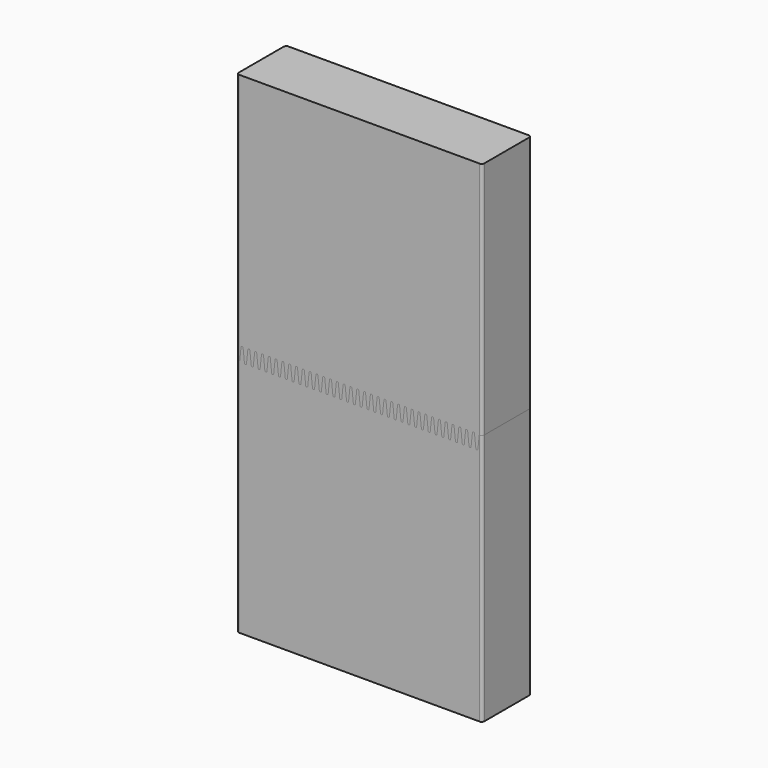
from build123d import *

# Parameters (mm, degrees)
F1_DEPTH = 38.1
F2_DEPTH = 38.1
F3_R     = 1.5875
F3_2_R   = 1.5875


with BuildPart() as f1:
    # F0 (on Front) → F1 (new body)
    with BuildSketch(Plane.XZ):
        with BuildLine():
            Line((-1.871233102, 156.4351255988), (0, 156.4351255988))
            Line((0, 156.4351255988), (0, 304.8))
            Line((0, 304.8), (-152.4, 304.8))
            Line((-152.4, 304.8), (-152.4, 148.3648744012))
            Line((-152.4, 148.3648744012), (-150.5077, 148.3648744012))
            Line((-150.5077, 148.3648744012), (-149.659482102, 156.4351255988))
            ThreePointArc((-149.659482102, 156.4351255988), (-149.027960701, 157.00375), (-148.3964393, 156.4351255988))
            Line((-148.3964393, 156.4351255988), (-147.548221402, 148.3648744012))
            ThreePointArc((-147.548221402, 148.3648744012), (-146.916700001, 147.79625), (-146.2851786, 148.3648744012))
            Line((-146.2851786, 148.3648744012), (-145.436960702, 156.4351255988))
            ThreePointArc((-145.436960702, 156.4351255988), (-144.805439301, 157.00375), (-144.1739179, 156.4351255988))
            Line((-144.1739179, 156.4351255988), (-143.325700002, 148.3648744012))
            ThreePointArc((-143.325700002, 148.3648744012), (-142.694178601, 147.79625), (-142.0626572, 148.3648744012))
            Line((-142.0626572, 148.3648744012), (-141.214439302, 156.4351255988))
            ThreePointArc((-141.214439302, 156.4351255988), (-140.582917901, 157.00375), (-139.9513965, 156.4351255988))
            Line((-139.9513965, 156.4351255988), (-139.103178602, 148.3648744012))
            ThreePointArc((-139.103178602, 148.3648744012), (-138.471657201, 147.79625), (-137.8401358, 148.3648744012))
            Line((-137.8401358, 148.3648744012), (-136.991917902, 156.4351255988))
            ThreePointArc((-136.991917902, 156.4351255988), (-136.360396501, 157.00375), (-135.7288751, 156.4351255988))
            Line((-135.7288751, 156.4351255988), (-134.880657202, 148.3648744012))
            ThreePointArc((-134.880657202, 148.3648744012), (-134.249135801, 147.79625), (-133.6176144, 148.3648744012))
            Line((-133.6176144, 148.3648744012), (-132.769396502, 156.4351255988))
            ThreePointArc((-132.769396502, 156.4351255988), (-132.137875101, 157.00375), (-131.5063537, 156.4351255988))
            Line((-131.5063537, 156.4351255988), (-130.658135802, 148.3648744012))
            ThreePointArc((-130.658135802, 148.3648744012), (-130.026614401, 147.79625), (-129.395093, 148.3648744012))
            Line((-129.395093, 148.3648744012), (-128.546875102, 156.4351255988))
            ThreePointArc((-128.546875102, 156.4351255988), (-127.915353701, 157.00375), (-127.2838323, 156.4351255988))
            Line((-127.2838323, 156.4351255988), (-126.435614402, 148.3648744012))
            ThreePointArc((-126.435614402, 148.3648744012), (-125.804093001, 147.79625), (-125.1725716, 148.3648744012))
            Line((-125.1725716, 148.3648744012), (-124.324353702, 156.4351255988))
            ThreePointArc((-124.324353702, 156.4351255988), (-123.692832301, 157.00375), (-123.0613109, 156.4351255988))
            Line((-123.0613109, 156.4351255988), (-122.213093002, 148.3648744012))
            ThreePointArc((-122.213093002, 148.3648744012), (-121.581571601, 147.79625), (-120.9500502, 148.3648744012))
            Line((-120.9500502, 148.3648744012), (-120.101832302, 156.4351255988))
            ThreePointArc((-120.101832302, 156.4351255988), (-119.470310901, 157.00375), (-118.8387895, 156.4351255988))
            Line((-118.8387895, 156.4351255988), (-117.990571602, 148.3648744012))
            ThreePointArc((-117.990571602, 148.3648744012), (-117.359050201, 147.79625), (-116.7275288, 148.3648744012))
            Line((-116.7275288, 148.3648744012), (-115.879310902, 156.4351255988))
            ThreePointArc((-115.879310902, 156.4351255988), (-115.247789501, 157.00375), (-114.6162681, 156.4351255988))
            Line((-114.6162681, 156.4351255988), (-113.768050202, 148.3648744012))
            ThreePointArc((-113.768050202, 148.3648744012), (-113.136528801, 147.79625), (-112.5050074, 148.3648744012))
            Line((-112.5050074, 148.3648744012), (-111.656789502, 156.4351255988))
            ThreePointArc((-111.656789502, 156.4351255988), (-111.025268101, 157.00375), (-110.3937467, 156.4351255988))
            Line((-110.3937467, 156.4351255988), (-109.545528802, 148.3648744012))
            ThreePointArc((-109.545528802, 148.3648744012), (-108.914007401, 147.79625), (-108.282486, 148.3648744012))
            Line((-108.282486, 148.3648744012), (-107.434268102, 156.4351255988))
            ThreePointArc((-107.434268102, 156.4351255988), (-106.802746701, 157.00375), (-106.1712253, 156.4351255988))
            Line((-106.1712253, 156.4351255988), (-105.323007402, 148.3648744012))
            ThreePointArc((-105.323007402, 148.3648744012), (-104.691486001, 147.79625), (-104.0599646, 148.3648744012))
            Line((-104.0599646, 148.3648744012), (-103.211746702, 156.4351255988))
            ThreePointArc((-103.211746702, 156.4351255988), (-102.580225301, 157.00375), (-101.9487039, 156.4351255988))
            Line((-101.9487039, 156.4351255988), (-101.100486002, 148.3648744012))
            ThreePointArc((-101.100486002, 148.3648744012), (-100.468964601, 147.79625), (-99.8374432, 148.3648744012))
            Line((-99.8374432, 148.3648744012), (-98.989225302, 156.4351255988))
            ThreePointArc((-98.989225302, 156.4351255988), (-98.357703901, 157.00375), (-97.7261825, 156.4351255988))
            Line((-97.7261825, 156.4351255988), (-96.877964602, 148.3648744012))
            ThreePointArc((-96.877964602, 148.3648744012), (-96.246443201, 147.79625), (-95.6149218, 148.3648744012))
            Line((-95.6149218, 148.3648744012), (-94.766703902, 156.4351255988))
            ThreePointArc((-94.766703902, 156.4351255988), (-94.135182501, 157.00375), (-93.5036611, 156.4351255988))
            Line((-93.5036611, 156.4351255988), (-92.655443202, 148.3648744012))
            ThreePointArc((-92.655443202, 148.3648744012), (-92.023921801, 147.79625), (-91.3924004, 148.3648744012))
            Line((-91.3924004, 148.3648744012), (-90.544182502, 156.4351255988))
            ThreePointArc((-90.544182502, 156.4351255988), (-89.912661101, 157.00375), (-89.2811397, 156.4351255988))
            Line((-89.2811397, 156.4351255988), (-88.432921802, 148.3648744012))
            ThreePointArc((-88.432921802, 148.3648744012), (-87.801400401, 147.79625), (-87.169879, 148.3648744012))
            Line((-87.169879, 148.3648744012), (-86.321661102, 156.4351255988))
            ThreePointArc((-86.321661102, 156.4351255988), (-85.690139701, 157.00375), (-85.0586183, 156.4351255988))
            Line((-85.0586183, 156.4351255988), (-84.210400402, 148.3648744012))
            ThreePointArc((-84.210400402, 148.3648744012), (-83.578879001, 147.79625), (-82.9473576, 148.3648744012))
            Line((-82.9473576, 148.3648744012), (-82.099139702, 156.4351255988))
            ThreePointArc((-82.099139702, 156.4351255988), (-81.467618301, 157.00375), (-80.8360969, 156.4351255988))
            Line((-80.8360969, 156.4351255988), (-79.987879002, 148.3648744012))
            ThreePointArc((-79.987879002, 148.3648744012), (-79.356357601, 147.79625), (-78.7248362, 148.3648744012))
            Line((-78.7248362, 148.3648744012), (-77.876618302, 156.4351255988))
            ThreePointArc((-77.876618302, 156.4351255988), (-77.245096901, 157.00375), (-76.6135755, 156.4351255988))
            Line((-76.6135755, 156.4351255988), (-75.765357602, 148.3648744012))
            ThreePointArc((-75.765357602, 148.3648744012), (-75.133836201, 147.79625), (-74.5023148, 148.3648744012))
            Line((-74.5023148, 148.3648744012), (-73.654096902, 156.4351255988))
            ThreePointArc((-73.654096902, 156.4351255988), (-73.022575501, 157.00375), (-72.3910541, 156.4351255988))
            Line((-72.3910541, 156.4351255988), (-71.542836202, 148.3648744012))
            ThreePointArc((-71.542836202, 148.3648744012), (-70.911314801, 147.79625), (-70.2797934, 148.3648744012))
            Line((-70.2797934, 148.3648744012), (-69.431575502, 156.4351255988))
            ThreePointArc((-69.431575502, 156.4351255988), (-68.800054101, 157.00375), (-68.1685327, 156.4351255988))
            Line((-68.1685327, 156.4351255988), (-67.320314802, 148.3648744012))
            ThreePointArc((-67.320314802, 148.3648744012), (-66.688793401, 147.79625), (-66.057272, 148.3648744012))
            Line((-66.057272, 148.3648744012), (-65.209054102, 156.4351255988))
            ThreePointArc((-65.209054102, 156.4351255988), (-64.577532701, 157.00375), (-63.9460113, 156.4351255988))
            Line((-63.9460113, 156.4351255988), (-63.097793402, 148.3648744012))
            ThreePointArc((-63.097793402, 148.3648744012), (-62.466272001, 147.79625), (-61.8347506, 148.3648744012))
            Line((-61.8347506, 148.3648744012), (-60.986532702, 156.4351255988))
            ThreePointArc((-60.986532702, 156.4351255988), (-60.355011301, 157.00375), (-59.7234899, 156.4351255988))
            Line((-59.7234899, 156.4351255988), (-58.875272002, 148.3648744012))
            ThreePointArc((-58.875272002, 148.3648744012), (-58.243750601, 147.79625), (-57.6122292, 148.3648744012))
            Line((-57.6122292, 148.3648744012), (-56.764011302, 156.4351255988))
            ThreePointArc((-56.764011302, 156.4351255988), (-56.132489901, 157.00375), (-55.5009685, 156.4351255988))
            Line((-55.5009685, 156.4351255988), (-54.652750602, 148.3648744012))
            ThreePointArc((-54.652750602, 148.3648744012), (-54.021229201, 147.79625), (-53.3897078, 148.3648744012))
            Line((-53.3897078, 148.3648744012), (-52.541489902, 156.4351255988))
            ThreePointArc((-52.541489902, 156.4351255988), (-51.909968501, 157.00375), (-51.2784471, 156.4351255988))
            Line((-51.2784471, 156.4351255988), (-50.430229202, 148.3648744012))
            ThreePointArc((-50.430229202, 148.3648744012), (-49.798707801, 147.79625), (-49.1671864, 148.3648744012))
            Line((-49.1671864, 148.3648744012), (-48.318968502, 156.4351255988))
            ThreePointArc((-48.318968502, 156.4351255988), (-47.687447101, 157.00375), (-47.0559257, 156.4351255988))
            Line((-47.0559257, 156.4351255988), (-46.207707802, 148.3648744012))
            ThreePointArc((-46.207707802, 148.3648744012), (-45.576186401, 147.79625), (-44.944665, 148.3648744012))
            Line((-44.944665, 148.3648744012), (-44.096447102, 156.4351255988))
            ThreePointArc((-44.096447102, 156.4351255988), (-43.464925701, 157.00375), (-42.8334043, 156.4351255988))
            Line((-42.8334043, 156.4351255988), (-41.985186402, 148.3648744012))
            ThreePointArc((-41.985186402, 148.3648744012), (-41.353665001, 147.79625), (-40.7221436, 148.3648744012))
            Line((-40.7221436, 148.3648744012), (-39.873925702, 156.4351255988))
            ThreePointArc((-39.873925702, 156.4351255988), (-39.242404301, 157.00375), (-38.6108829, 156.4351255988))
            Line((-38.6108829, 156.4351255988), (-37.762665002, 148.3648744012))
            ThreePointArc((-37.762665002, 148.3648744012), (-37.131143601, 147.79625), (-36.4996222, 148.3648744012))
            Line((-36.4996222, 148.3648744012), (-35.651404302, 156.4351255988))
            ThreePointArc((-35.651404302, 156.4351255988), (-35.019882901, 157.00375), (-34.3883615, 156.4351255988))
            Line((-34.3883615, 156.4351255988), (-33.540143602, 148.3648744012))
            ThreePointArc((-33.540143602, 148.3648744012), (-32.908622201, 147.79625), (-32.2771008, 148.3648744012))
            Line((-32.2771008, 148.3648744012), (-31.428882902, 156.4351255988))
            ThreePointArc((-31.428882902, 156.4351255988), (-30.797361501, 157.00375), (-30.1658401, 156.4351255988))
            Line((-30.1658401, 156.4351255988), (-29.317622202, 148.3648744012))
            ThreePointArc((-29.317622202, 148.3648744012), (-28.686100801, 147.79625), (-28.0545794, 148.3648744012))
            Line((-28.0545794, 148.3648744012), (-27.206361502, 156.4351255988))
            ThreePointArc((-27.206361502, 156.4351255988), (-26.574840101, 157.00375), (-25.9433187, 156.4351255988))
            Line((-25.9433187, 156.4351255988), (-25.095100802, 148.3648744012))
            ThreePointArc((-25.095100802, 148.3648744012), (-24.463579401, 147.79625), (-23.832058, 148.3648744012))
            Line((-23.832058, 148.3648744012), (-22.983840102, 156.4351255988))
            ThreePointArc((-22.983840102, 156.4351255988), (-22.352318701, 157.00375), (-21.7207973, 156.4351255988))
            Line((-21.7207973, 156.4351255988), (-20.872579402, 148.3648744012))
            ThreePointArc((-20.872579402, 148.3648744012), (-20.241058001, 147.79625), (-19.6095366, 148.3648744012))
            Line((-19.6095366, 148.3648744012), (-18.761318702, 156.4351255988))
            ThreePointArc((-18.761318702, 156.4351255988), (-18.129797301, 157.00375), (-17.4982759, 156.4351255988))
            Line((-17.4982759, 156.4351255988), (-16.650058002, 148.3648744012))
            ThreePointArc((-16.650058002, 148.3648744012), (-16.018536601, 147.79625), (-15.3870152, 148.3648744012))
            Line((-15.3870152, 148.3648744012), (-14.538797302, 156.4351255988))
            ThreePointArc((-14.538797302, 156.4351255988), (-13.907275901, 157.00375), (-13.2757545, 156.4351255988))
            Line((-13.2757545, 156.4351255988), (-12.427536602, 148.3648744012))
            ThreePointArc((-12.427536602, 148.3648744012), (-11.796015201, 147.79625), (-11.1644938, 148.3648744012))
            Line((-11.1644938, 148.3648744012), (-10.316275902, 156.4351255988))
            ThreePointArc((-10.316275902, 156.4351255988), (-9.684754501, 157.00375), (-9.0532331, 156.4351255988))
            Line((-9.0532331, 156.4351255988), (-8.205015202, 148.3648744012))
            ThreePointArc((-8.205015202, 148.3648744012), (-7.573493801, 147.79625), (-6.9419724, 148.3648744012))
            Line((-6.9419724, 148.3648744012), (-6.093754502, 156.4351255988))
            ThreePointArc((-6.093754502, 156.4351255988), (-5.462233101, 157.00375), (-4.8307117, 156.4351255988))
            Line((-4.8307117, 156.4351255988), (-3.982493802, 148.3648744012))
            ThreePointArc((-3.982493802, 148.3648744012), (-3.350972401, 147.79625), (-2.719451, 148.3648744012))
            Line((-2.719451, 148.3648744012), (-1.871233102, 156.4351255988))
        make_face()
    extrude(amount=-F1_DEPTH)

    # F3
    f3_edges = [f1.edges().sort_by_distance(p)[0] for p in [
        (0, 0, 230.617563),
        (0, 38.1, 230.617563),
        (-152.4, 38.1, 226.582437),
        (-152.4, 0, 226.582437),
    ]]
    fillet(f3_edges, radius=F3_R)


with BuildPart() as f2:
    # F0 (on Front) → F2 (new body)
    with BuildSketch(Plane.XZ):
        with BuildLine():
            Line((-152.4, 0), (0, 0))
            Line((0, 0), (0, 156.4351255988))
            Line((0, 156.4351255988), (-1.871233102, 156.4351255988))
            Line((-1.871233102, 156.4351255988), (-2.719451, 148.3648744012))
            ThreePointArc((-2.719451, 148.3648744012), (-3.350972401, 147.79625), (-3.982493802, 148.3648744012))
            Line((-3.982493802, 148.3648744012), (-4.8307117, 156.4351255988))
            ThreePointArc((-4.8307117, 156.4351255988), (-5.462233101, 157.00375), (-6.093754502, 156.4351255988))
            Line((-6.093754502, 156.4351255988), (-6.9419724, 148.3648744012))
            ThreePointArc((-6.9419724, 148.3648744012), (-7.573493801, 147.79625), (-8.205015202, 148.3648744012))
            Line((-8.205015202, 148.3648744012), (-9.0532331, 156.4351255988))
            ThreePointArc((-9.0532331, 156.4351255988), (-9.684754501, 157.00375), (-10.316275902, 156.4351255988))
            Line((-10.316275902, 156.4351255988), (-11.1644938, 148.3648744012))
            ThreePointArc((-11.1644938, 148.3648744012), (-11.796015201, 147.79625), (-12.427536602, 148.3648744012))
            Line((-12.427536602, 148.3648744012), (-13.2757545, 156.4351255988))
            ThreePointArc((-13.2757545, 156.4351255988), (-13.907275901, 157.00375), (-14.538797302, 156.4351255988))
            Line((-14.538797302, 156.4351255988), (-15.3870152, 148.3648744012))
            ThreePointArc((-15.3870152, 148.3648744012), (-16.018536601, 147.79625), (-16.650058002, 148.3648744012))
            Line((-16.650058002, 148.3648744012), (-17.4982759, 156.4351255988))
            ThreePointArc((-17.4982759, 156.4351255988), (-18.129797301, 157.00375), (-18.761318702, 156.4351255988))
            Line((-18.761318702, 156.4351255988), (-19.6095366, 148.3648744012))
            ThreePointArc((-19.6095366, 148.3648744012), (-20.241058001, 147.79625), (-20.872579402, 148.3648744012))
            Line((-20.872579402, 148.3648744012), (-21.7207973, 156.4351255988))
            ThreePointArc((-21.7207973, 156.4351255988), (-22.352318701, 157.00375), (-22.983840102, 156.4351255988))
            Line((-22.983840102, 156.4351255988), (-23.832058, 148.3648744012))
            ThreePointArc((-23.832058, 148.3648744012), (-24.463579401, 147.79625), (-25.095100802, 148.3648744012))
            Line((-25.095100802, 148.3648744012), (-25.9433187, 156.4351255988))
            ThreePointArc((-25.9433187, 156.4351255988), (-26.574840101, 157.00375), (-27.206361502, 156.4351255988))
            Line((-27.206361502, 156.4351255988), (-28.0545794, 148.3648744012))
            ThreePointArc((-28.0545794, 148.3648744012), (-28.686100801, 147.79625), (-29.317622202, 148.3648744012))
            Line((-29.317622202, 148.3648744012), (-30.1658401, 156.4351255988))
            ThreePointArc((-30.1658401, 156.4351255988), (-30.797361501, 157.00375), (-31.428882902, 156.4351255988))
            Line((-31.428882902, 156.4351255988), (-32.2771008, 148.3648744012))
            ThreePointArc((-32.2771008, 148.3648744012), (-32.908622201, 147.79625), (-33.540143602, 148.3648744012))
            Line((-33.540143602, 148.3648744012), (-34.3883615, 156.4351255988))
            ThreePointArc((-34.3883615, 156.4351255988), (-35.019882901, 157.00375), (-35.651404302, 156.4351255988))
            Line((-35.651404302, 156.4351255988), (-36.4996222, 148.3648744012))
            ThreePointArc((-36.4996222, 148.3648744012), (-37.131143601, 147.79625), (-37.762665002, 148.3648744012))
            Line((-37.762665002, 148.3648744012), (-38.6108829, 156.4351255988))
            ThreePointArc((-38.6108829, 156.4351255988), (-39.242404301, 157.00375), (-39.873925702, 156.4351255988))
            Line((-39.873925702, 156.4351255988), (-40.7221436, 148.3648744012))
            ThreePointArc((-40.7221436, 148.3648744012), (-41.353665001, 147.79625), (-41.985186402, 148.3648744012))
            Line((-41.985186402, 148.3648744012), (-42.8334043, 156.4351255988))
            ThreePointArc((-42.8334043, 156.4351255988), (-43.464925701, 157.00375), (-44.096447102, 156.4351255988))
            Line((-44.096447102, 156.4351255988), (-44.944665, 148.3648744012))
            ThreePointArc((-44.944665, 148.3648744012), (-45.576186401, 147.79625), (-46.207707802, 148.3648744012))
            Line((-46.207707802, 148.3648744012), (-47.0559257, 156.4351255988))
            ThreePointArc((-47.0559257, 156.4351255988), (-47.687447101, 157.00375), (-48.318968502, 156.4351255988))
            Line((-48.318968502, 156.4351255988), (-49.1671864, 148.3648744012))
            ThreePointArc((-49.1671864, 148.3648744012), (-49.798707801, 147.79625), (-50.430229202, 148.3648744012))
            Line((-50.430229202, 148.3648744012), (-51.2784471, 156.4351255988))
            ThreePointArc((-51.2784471, 156.4351255988), (-51.909968501, 157.00375), (-52.541489902, 156.4351255988))
            Line((-52.541489902, 156.4351255988), (-53.3897078, 148.3648744012))
            ThreePointArc((-53.3897078, 148.3648744012), (-54.021229201, 147.79625), (-54.652750602, 148.3648744012))
            Line((-54.652750602, 148.3648744012), (-55.5009685, 156.4351255988))
            ThreePointArc((-55.5009685, 156.4351255988), (-56.132489901, 157.00375), (-56.764011302, 156.4351255988))
            Line((-56.764011302, 156.4351255988), (-57.6122292, 148.3648744012))
            ThreePointArc((-57.6122292, 148.3648744012), (-58.243750601, 147.79625), (-58.875272002, 148.3648744012))
            Line((-58.875272002, 148.3648744012), (-59.7234899, 156.4351255988))
            ThreePointArc((-59.7234899, 156.4351255988), (-60.355011301, 157.00375), (-60.986532702, 156.4351255988))
            Line((-60.986532702, 156.4351255988), (-61.8347506, 148.3648744012))
            ThreePointArc((-61.8347506, 148.3648744012), (-62.466272001, 147.79625), (-63.097793402, 148.3648744012))
            Line((-63.097793402, 148.3648744012), (-63.9460113, 156.4351255988))
            ThreePointArc((-63.9460113, 156.4351255988), (-64.577532701, 157.00375), (-65.209054102, 156.4351255988))
            Line((-65.209054102, 156.4351255988), (-66.057272, 148.3648744012))
            ThreePointArc((-66.057272, 148.3648744012), (-66.688793401, 147.79625), (-67.320314802, 148.3648744012))
            Line((-67.320314802, 148.3648744012), (-68.1685327, 156.4351255988))
            ThreePointArc((-68.1685327, 156.4351255988), (-68.800054101, 157.00375), (-69.431575502, 156.4351255988))
            Line((-69.431575502, 156.4351255988), (-70.2797934, 148.3648744012))
            ThreePointArc((-70.2797934, 148.3648744012), (-70.911314801, 147.79625), (-71.542836202, 148.3648744012))
            Line((-71.542836202, 148.3648744012), (-72.3910541, 156.4351255988))
            ThreePointArc((-72.3910541, 156.4351255988), (-73.022575501, 157.00375), (-73.654096902, 156.4351255988))
            Line((-73.654096902, 156.4351255988), (-74.5023148, 148.3648744012))
            ThreePointArc((-74.5023148, 148.3648744012), (-75.133836201, 147.79625), (-75.765357602, 148.3648744012))
            Line((-75.765357602, 148.3648744012), (-76.6135755, 156.4351255988))
            ThreePointArc((-76.6135755, 156.4351255988), (-77.245096901, 157.00375), (-77.876618302, 156.4351255988))
            Line((-77.876618302, 156.4351255988), (-78.7248362, 148.3648744012))
            ThreePointArc((-78.7248362, 148.3648744012), (-79.356357601, 147.79625), (-79.987879002, 148.3648744012))
            Line((-79.987879002, 148.3648744012), (-80.8360969, 156.4351255988))
            ThreePointArc((-80.8360969, 156.4351255988), (-81.467618301, 157.00375), (-82.099139702, 156.4351255988))
            Line((-82.099139702, 156.4351255988), (-82.9473576, 148.3648744012))
            ThreePointArc((-82.9473576, 148.3648744012), (-83.578879001, 147.79625), (-84.210400402, 148.3648744012))
            Line((-84.210400402, 148.3648744012), (-85.0586183, 156.4351255988))
            ThreePointArc((-85.0586183, 156.4351255988), (-85.690139701, 157.00375), (-86.321661102, 156.4351255988))
            Line((-86.321661102, 156.4351255988), (-87.169879, 148.3648744012))
            ThreePointArc((-87.169879, 148.3648744012), (-87.801400401, 147.79625), (-88.432921802, 148.3648744012))
            Line((-88.432921802, 148.3648744012), (-89.2811397, 156.4351255988))
            ThreePointArc((-89.2811397, 156.4351255988), (-89.912661101, 157.00375), (-90.544182502, 156.4351255988))
            Line((-90.544182502, 156.4351255988), (-91.3924004, 148.3648744012))
            ThreePointArc((-91.3924004, 148.3648744012), (-92.023921801, 147.79625), (-92.655443202, 148.3648744012))
            Line((-92.655443202, 148.3648744012), (-93.5036611, 156.4351255988))
            ThreePointArc((-93.5036611, 156.4351255988), (-94.135182501, 157.00375), (-94.766703902, 156.4351255988))
            Line((-94.766703902, 156.4351255988), (-95.6149218, 148.3648744012))
            ThreePointArc((-95.6149218, 148.3648744012), (-96.246443201, 147.79625), (-96.877964602, 148.3648744012))
            Line((-96.877964602, 148.3648744012), (-97.7261825, 156.4351255988))
            ThreePointArc((-97.7261825, 156.4351255988), (-98.357703901, 157.00375), (-98.989225302, 156.4351255988))
            Line((-98.989225302, 156.4351255988), (-99.8374432, 148.3648744012))
            ThreePointArc((-99.8374432, 148.3648744012), (-100.468964601, 147.79625), (-101.100486002, 148.3648744012))
            Line((-101.100486002, 148.3648744012), (-101.9487039, 156.4351255988))
            ThreePointArc((-101.9487039, 156.4351255988), (-102.580225301, 157.00375), (-103.211746702, 156.4351255988))
            Line((-103.211746702, 156.4351255988), (-104.0599646, 148.3648744012))
            ThreePointArc((-104.0599646, 148.3648744012), (-104.691486001, 147.79625), (-105.323007402, 148.3648744012))
            Line((-105.323007402, 148.3648744012), (-106.1712253, 156.4351255988))
            ThreePointArc((-106.1712253, 156.4351255988), (-106.802746701, 157.00375), (-107.434268102, 156.4351255988))
            Line((-107.434268102, 156.4351255988), (-108.282486, 148.3648744012))
            ThreePointArc((-108.282486, 148.3648744012), (-108.914007401, 147.79625), (-109.545528802, 148.3648744012))
            Line((-109.545528802, 148.3648744012), (-110.3937467, 156.4351255988))
            ThreePointArc((-110.3937467, 156.4351255988), (-111.025268101, 157.00375), (-111.656789502, 156.4351255988))
            Line((-111.656789502, 156.4351255988), (-112.5050074, 148.3648744012))
            ThreePointArc((-112.5050074, 148.3648744012), (-113.136528801, 147.79625), (-113.768050202, 148.3648744012))
            Line((-113.768050202, 148.3648744012), (-114.6162681, 156.4351255988))
            ThreePointArc((-114.6162681, 156.4351255988), (-115.247789501, 157.00375), (-115.879310902, 156.4351255988))
            Line((-115.879310902, 156.4351255988), (-116.7275288, 148.3648744012))
            ThreePointArc((-116.7275288, 148.3648744012), (-117.359050201, 147.79625), (-117.990571602, 148.3648744012))
            Line((-117.990571602, 148.3648744012), (-118.8387895, 156.4351255988))
            ThreePointArc((-118.8387895, 156.4351255988), (-119.470310901, 157.00375), (-120.101832302, 156.4351255988))
            Line((-120.101832302, 156.4351255988), (-120.9500502, 148.3648744012))
            ThreePointArc((-120.9500502, 148.3648744012), (-121.581571601, 147.79625), (-122.213093002, 148.3648744012))
            Line((-122.213093002, 148.3648744012), (-123.0613109, 156.4351255988))
            ThreePointArc((-123.0613109, 156.4351255988), (-123.692832301, 157.00375), (-124.324353702, 156.4351255988))
            Line((-124.324353702, 156.4351255988), (-125.1725716, 148.3648744012))
            ThreePointArc((-125.1725716, 148.3648744012), (-125.804093001, 147.79625), (-126.435614402, 148.3648744012))
            Line((-126.435614402, 148.3648744012), (-127.2838323, 156.4351255988))
            ThreePointArc((-127.2838323, 156.4351255988), (-127.915353701, 157.00375), (-128.546875102, 156.4351255988))
            Line((-128.546875102, 156.4351255988), (-129.395093, 148.3648744012))
            ThreePointArc((-129.395093, 148.3648744012), (-130.026614401, 147.79625), (-130.658135802, 148.3648744012))
            Line((-130.658135802, 148.3648744012), (-131.5063537, 156.4351255988))
            ThreePointArc((-131.5063537, 156.4351255988), (-132.137875101, 157.00375), (-132.769396502, 156.4351255988))
            Line((-132.769396502, 156.4351255988), (-133.6176144, 148.3648744012))
            ThreePointArc((-133.6176144, 148.3648744012), (-134.249135801, 147.79625), (-134.880657202, 148.3648744012))
            Line((-134.880657202, 148.3648744012), (-135.7288751, 156.4351255988))
            ThreePointArc((-135.7288751, 156.4351255988), (-136.360396501, 157.00375), (-136.991917902, 156.4351255988))
            Line((-136.991917902, 156.4351255988), (-137.8401358, 148.3648744012))
            ThreePointArc((-137.8401358, 148.3648744012), (-138.471657201, 147.79625), (-139.103178602, 148.3648744012))
            Line((-139.103178602, 148.3648744012), (-139.9513965, 156.4351255988))
            ThreePointArc((-139.9513965, 156.4351255988), (-140.582917901, 157.00375), (-141.214439302, 156.4351255988))
            Line((-141.214439302, 156.4351255988), (-142.0626572, 148.3648744012))
            ThreePointArc((-142.0626572, 148.3648744012), (-142.694178601, 147.79625), (-143.325700002, 148.3648744012))
            Line((-143.325700002, 148.3648744012), (-144.1739179, 156.4351255988))
            ThreePointArc((-144.1739179, 156.4351255988), (-144.805439301, 157.00375), (-145.436960702, 156.4351255988))
            Line((-145.436960702, 156.4351255988), (-146.2851786, 148.3648744012))
            ThreePointArc((-146.2851786, 148.3648744012), (-146.916700001, 147.79625), (-147.548221402, 148.3648744012))
            Line((-147.548221402, 148.3648744012), (-148.3964393, 156.4351255988))
            ThreePointArc((-148.3964393, 156.4351255988), (-149.027960701, 157.00375), (-149.659482102, 156.4351255988))
            Line((-149.659482102, 156.4351255988), (-150.5077, 148.3648744012))
            Line((-150.5077, 148.3648744012), (-152.4, 148.3648744012))
            Line((-152.4, 148.3648744012), (-152.4, 0))
        make_face()
    extrude(amount=-F2_DEPTH)

    # F3#2
    f3_2_edges = [f2.edges().sort_by_distance(p)[0] for p in [
        (0, 0, 78.217563),
        (0, 38.1, 78.217563),
        (-152.4, 38.1, 74.182437),
        (-152.4, 0, 74.182437),
    ]]
    fillet(f3_2_edges, radius=F3_2_R)


solid = Compound([f1.part, f2.part])
